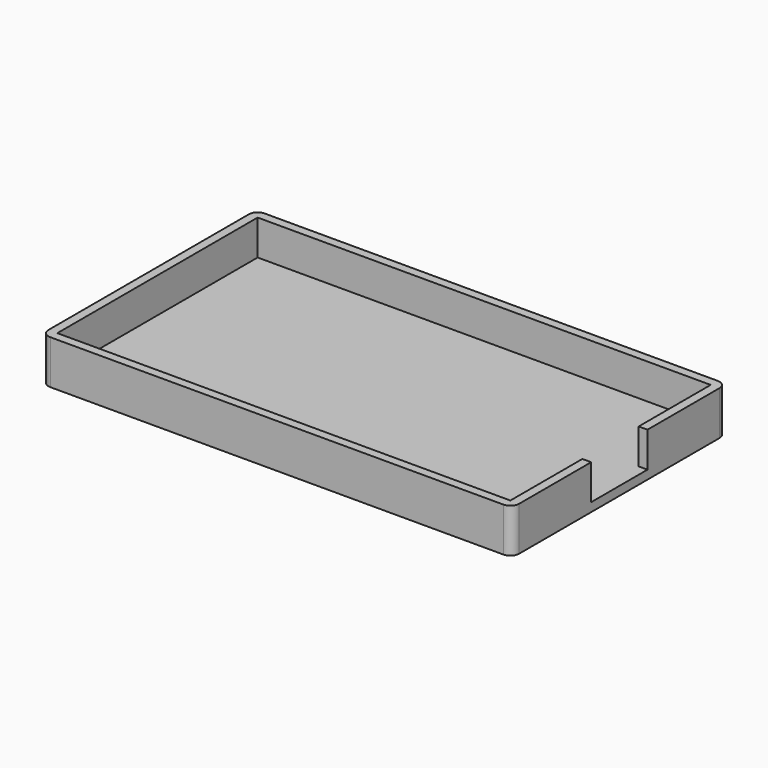
from build123d import *

# Parameters (mm, degrees)
SKETCH_W      = 53.5
SKETCH_H      = 30.46
PAD_DEPTH     = 1
SKETCH001_W   = 53.5
SKETCH001_H   = 30.46
SKETCH001_W_2 = 51.5
SKETCH001_H_2 = 28.46
PAD001_DEPTH  = 4
SKETCH002_W   = 8
SKETCH002_H   = 4
POCKET_DEPTH  = 1
FILLET_R      = 1


with BuildPart() as part:
    # Sketch → Pad (new body)
    with BuildSketch(Plane.XY):
        Rectangle(SKETCH_W, SKETCH_H)
    extrude(amount=PAD_DEPTH)

    # Sketch001 (on Face6 of Pad) → Pad001 (join)
    with BuildSketch(Plane.XY.offset(1)):
        Rectangle(SKETCH001_W, SKETCH001_H)
        Rectangle(SKETCH001_W_2, SKETCH001_H_2, mode=Mode.SUBTRACT)
    extrude(amount=PAD001_DEPTH)

    # Sketch002 (on Face8 of Pad001) → Pocket (cut)
    with BuildSketch(Plane.YZ.offset(26.75)):
        with Locations((0, 3)):
            Rectangle(SKETCH002_W, SKETCH002_H)
    extrude(amount=-POCKET_DEPTH, mode=Mode.SUBTRACT)

    # Fillet
    fillet_edges = [part.edges().sort_by_distance(p)[0] for p in [
        (26.75, -15.23, 0.5),
        (26.75, -15.23, 3),
        (26.75, 15.23, 3),
        (26.75, 15.23, 0.5),
        (-26.75, 15.23, 3),
        (-26.75, 15.23, 0.5),
        (-26.75, -15.23, 3),
        (-26.75, -15.23, 0.5),
    ]]
    fillet(fillet_edges, radius=FILLET_R)


solid = part.part
